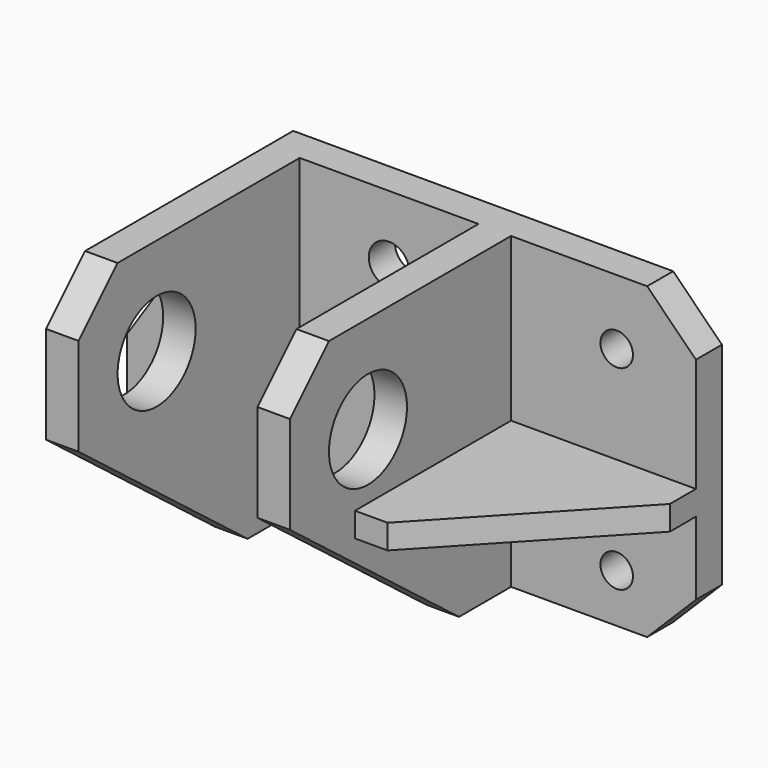
from build123d import *

# Parameters (mm, degrees)
F1_DEPTH  = 12.7
F2_SIZE   = 19.05
F3_R      = 7.9375
F3_R_2    = 6.35
F4_DEPTH  = 74.422
F3_W      = 12.7
F3_H      = 120.65
F5_DEPTH  = 107.95
F6_SIZE   = 19.05
F7_R      = 19.05
F8_DEPTH  = 399.034
F3_W_2    = 72.2113
F3_H_2    = 9.525
F9_DEPTH  = 76.2
F11_DEPTH = 180.848


with BuildPart() as f1:
    # F0 (on Front) → F1 (new body)
    with BuildSketch(Plane.XZ):
        Polygon((109.076549, 47.385406), (-58.384751, 47.385406), (-113.173451, -35.164594), (-113.173451, -73.264594), (109.076549, -73.264594), align=None)
    extrude(amount=F1_DEPTH)

    # F2
    f2_edges = [f1.edges().sort_by_distance(p)[0] for p in [
        (109.076549, -6.35, -73.264594),
        (109.076549, -6.35, 47.385406),
    ]]
    chamfer(f2_edges, length=F2_SIZE)

    # F3 (on face) → F4 (cut)
    with BuildSketch(Plane.XZ.offset(12.7)):
        with Locations((-10.759751, 21.985406)):
            Circle(F3_R)
        with Locations((78.140249, 21.985406)):
            Circle(F3_R_2)
        with Locations((78.140249, -54.214594)):
            Circle(F3_R_2)
        with Locations((-106.009751, -57.58049)):
            Circle(F3_R_2)
        with Locations((-10.759751, -54.214594)):
            Circle(F3_R)
    extrude(amount=-F4_DEPTH, mode=Mode.SUBTRACT)

    # F3 (on face) → F5 (join)
    with BuildSketch(Plane.XZ.offset(12.7)):
        with Locations((-52.034751, -12.939594)):
            Rectangle(F3_W, F3_H)
        Polygon((36.865249, 47.385406), (24.165249, 47.385406), (24.165249, -73.264594), (36.865249, -73.264594), (36.865249, -25.639594), (36.865249, -16.114594), align=None)
    extrude(amount=F5_DEPTH)

    # F6
    f6_edges = [f1.edges().sort_by_distance(p)[0] for p in [
        (30.515249, -120.65, 47.385406),
        (-52.034751, -120.65, 47.385406),
    ]]
    chamfer(f6_edges, length=F6_SIZE)

    # F7 (on face) → F8 (cut)
    with BuildSketch(Plane.YZ.offset(36.865249)):
        with Locations((-82.55, 9.285406)):
            Circle(F7_R)
        Polygon((-38.1, -73.264594), (-120.65, -9.764594), (-120.65, -73.264594), align=None)
    extrude(amount=-F8_DEPTH, mode=Mode.SUBTRACT)

    # F3 (on face) → F9 (join)
    with BuildSketch(Plane.XZ.offset(12.7)):
        with Locations((72.970899, -20.877094)):
            Rectangle(F3_W_2, F3_H_2)
    extrude(amount=F9_DEPTH)

    # F10 (on face) → F11 (cut)
    with BuildSketch(Plane(origin=(0, 0, -25.639594), x_dir=(1, 0, 0), z_dir=(0, 0, -1))):
        Polygon((109.076549, 88.9), (49.565249, 88.9), (109.076549, 25.4), align=None)
    extrude(amount=-F11_DEPTH, mode=Mode.SUBTRACT)


solid = f1.part
